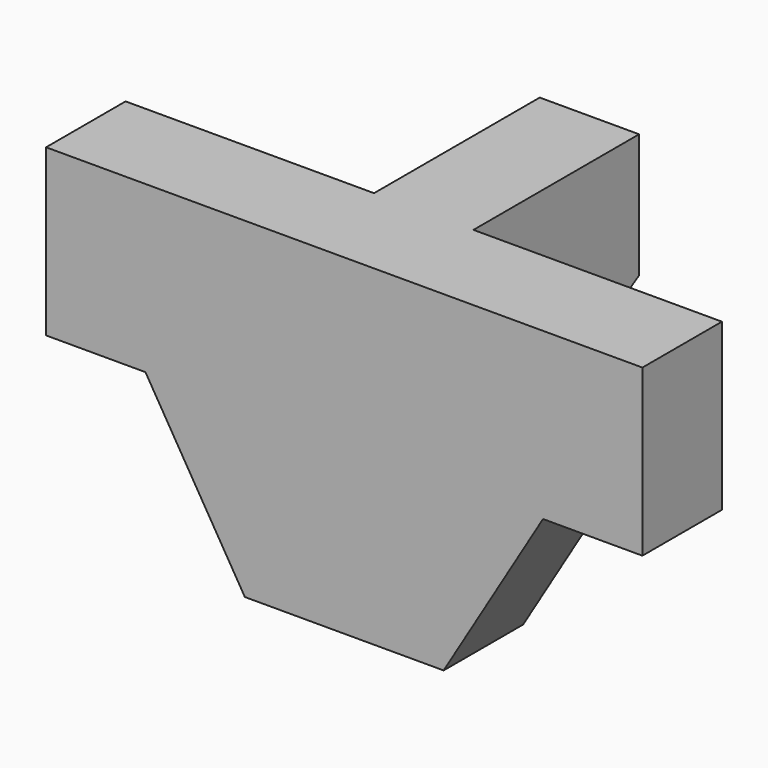
from build123d import *

# Parameters (mm, degrees)
F1_DEPTH = 12
F4_DEPTH = 12


with BuildPart() as f1:
    # F0 (on Front) → F1 (new body)
    with BuildSketch(Plane.XZ):
        Polygon((36, 0), (-36, 0), (-36, -20), (-24, -20), (-12, -40), (12, -40), (24, -20), (36, -20), align=None)
    extrude(amount=F1_DEPTH)

    # F3 (on offset) → F4 (join)
    with BuildSketch(Plane.YZ.offset(6)):
        Polygon((0, 0), (0, -20), (0, -30), (25, -15), (25, 0), align=None)
    extrude(amount=-F4_DEPTH)


solid = f1.part
